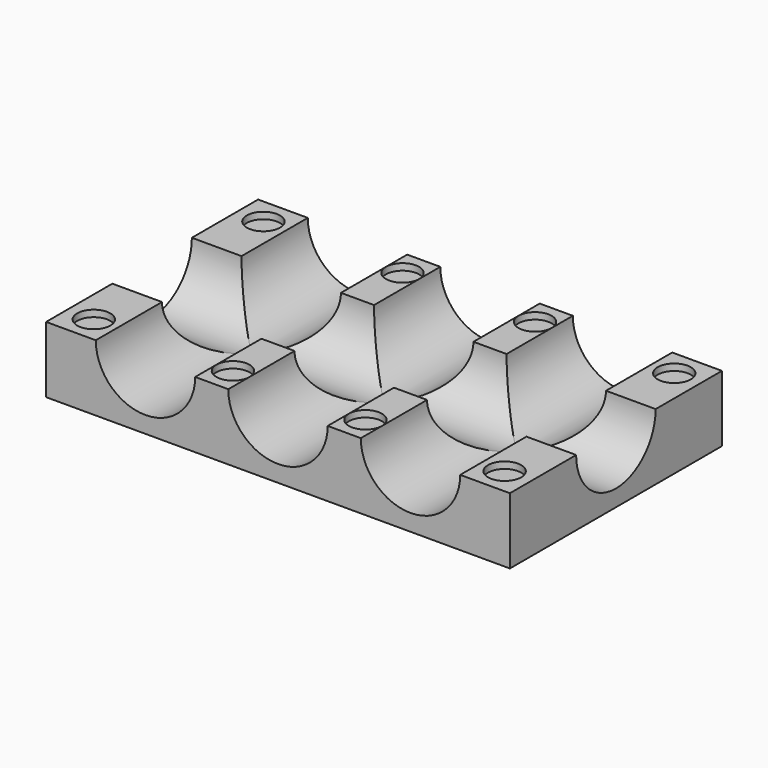
from build123d import *

# Parameters (mm, degrees)
F1_DEPTH  = 40
F3_DEPTH  = 70.001
F4_R      = 2.5
F5_DEPTH  = 1
F6_R      = 2.5
F7_DEPTH  = 1
F8_R      = 2.5
F9_DEPTH  = 1
F10_R     = 2.5
F11_DEPTH = 1
F13_DEPTH = 1
F15_DEPTH = 1
F17_DEPTH = 1
F19_DEPTH = 1


with BuildPart() as f1:
    # F0 (on Front) → F1 (new body)
    with BuildSketch(Plane.XZ):
        with BuildLine():
            Line((-35, -5), (35, -5))
            Line((35, -5), (35, 5))
            Line((35, 5), (27.5, 5))
            ThreePointArc((27.5, 5), (20, -2.5), (12.5, 5))
            Line((12.5, 5), (7.5, 5))
            ThreePointArc((7.5, 5), (0, -2.5), (-7.5, 5))
            Line((-7.5, 5), (-12.5, 5))
            ThreePointArc((-12.5, 5), (-20, -2.5), (-27.5, 5))
            Line((-27.5, 5), (-35, 5))
            Line((-35, 5), (-35, -5))
        make_face()
    extrude(amount=F1_DEPTH)

    # F2 (on face) → F3 (cut, through all)
    with BuildSketch(Plane.YZ.offset(35)):
        with BuildLine():
            ThreePointArc((-27.5, 5), (-20, -2.5), (-12.5, 5))
            Line((-12.5, 5), (-27.5, 5))
        make_face()
    extrude(amount=-F3_DEPTH, mode=Mode.SUBTRACT)

    # F4 (on face) → F5 (cut)
    with BuildSketch(Plane.XY.offset(5)):
        with Locations((31, -36)):
            Circle(F4_R)
    extrude(amount=-F5_DEPTH, mode=Mode.SUBTRACT)

    # F6 (on face) → F7 (cut)
    with BuildSketch(Plane.XY.offset(5)):
        with Locations((31, -3.9921798557)):
            Circle(F6_R)
    extrude(amount=-F7_DEPTH, mode=Mode.SUBTRACT)

    # F8 (on face) → F9 (cut)
    with BuildSketch(Plane.XY.offset(5)):
        with Locations((-31, -36)):
            Circle(F8_R)
    extrude(amount=-F9_DEPTH, mode=Mode.SUBTRACT)

    # F10 (on face) → F11 (cut)
    with BuildSketch(Plane.XY.offset(5)):
        with Locations((-31, -4)):
            Circle(F10_R)
    extrude(amount=-F11_DEPTH, mode=Mode.SUBTRACT)

    # F12 (on face) → F13 (cut)
    with BuildSketch(Plane.XY.offset(5)):
        with BuildLine():
            ThreePointArc((-12.5, -4), (-10, -6.5), (-7.5, -4))
            ThreePointArc((-7.5, -4), (-10, -1.5), (-12.5, -4))
        make_face()
    extrude(amount=-F13_DEPTH, mode=Mode.SUBTRACT)

    # F14 (on face) → F15 (cut)
    with BuildSketch(Plane.XY.offset(5)):
        with BuildLine():
            ThreePointArc((7.5, -4), (10, -6.5), (12.5, -4))
            ThreePointArc((12.5, -4), (10, -1.5), (7.5, -4))
        make_face()
    extrude(amount=-F15_DEPTH, mode=Mode.SUBTRACT)

    # F16 (on face) → F17 (cut)
    with BuildSketch(Plane.XY.offset(5)):
        with BuildLine():
            ThreePointArc((-12.5, -36), (-10, -38.5), (-7.5, -36))
            ThreePointArc((-7.5, -36), (-10, -33.5), (-12.5, -36))
        make_face()
    extrude(amount=-F17_DEPTH, mode=Mode.SUBTRACT)

    # F18 (on face) → F19 (cut)
    with BuildSketch(Plane.XY.offset(5)):
        with BuildLine():
            ThreePointArc((7.5, -36), (10, -38.5), (12.5, -36))
            ThreePointArc((12.5, -36), (10, -33.5), (7.5, -36))
        make_face()
    extrude(amount=-F19_DEPTH, mode=Mode.SUBTRACT)


solid = f1.part
